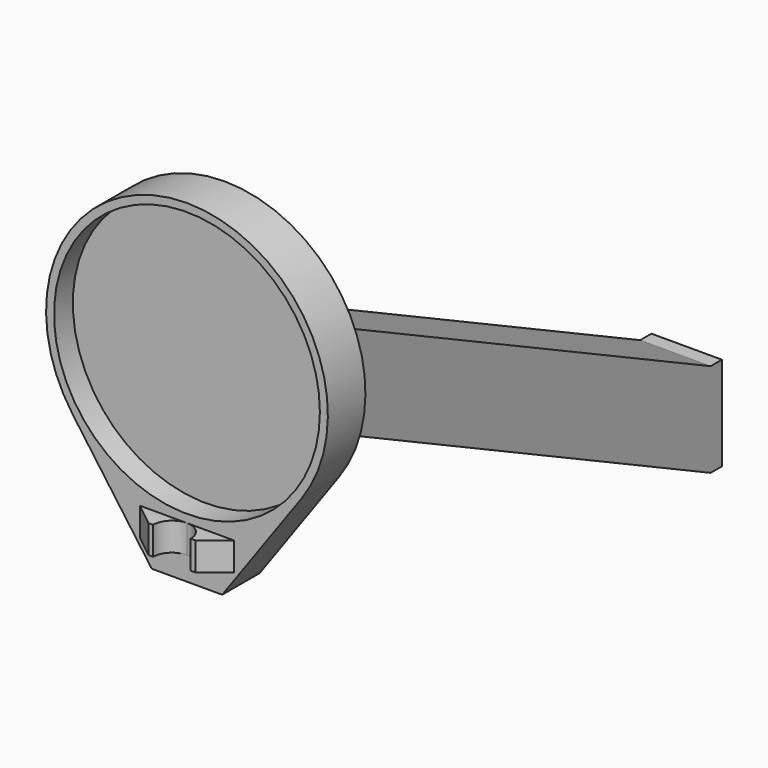
from build123d import *

# Parameters (mm, degrees)
SKETCH_W     = 15
SKETCH_H     = 20
SKETCH_R     = 2.75
PAD_DEPTH    = 3
PAD001_DEPTH = 2
PAD002_DEPTH = 5.5
PAD003_DEPTH = 5
SKETCH004_R  = 28.3
POCKET_DEPTH = 5
PAD004_DEPTH = 3


with BuildPart() as part:
    # Sketch → Pad (new body)
    with BuildSketch(Plane.XZ):
        Rectangle(SKETCH_W, SKETCH_H)
        Circle(SKETCH_R, mode=Mode.SUBTRACT)
    extrude(amount=-PAD_DEPTH)

    # Sketch001 (on DatumPlane) → Pad001 (join)
    with BuildSketch(Plane.YZ.offset(7.5)):
        Polygon((0, -10), (-125, 50), (-125, 70), (0, 10), align=None)
    pad001 = extrude(amount=-PAD001_DEPTH)

    # Mirrored: Pad001 across YZ
    add(pad001.mirror(Plane.YZ))

    # Sketch002 → Pad002 (join, symmetric)
    with BuildSketch(Plane.YZ):
        Polygon((0, 10), (-125, 70), (-125, 68), (0, 8), align=None)
    extrude(amount=PAD002_DEPTH, both=True)

    # Sketch003 (on DatumPlane) → Pad003 (join, symmetric)
    with BuildSketch(Plane.XZ.offset(125)):
        with BuildLine():
            ThreePointArc((24.372074, 43.507087), (0, 91), (-24.372074, 43.507087))
            Line((-24.372074, 43.507087), (-7.5, 20))
            Line((-7.5, 20), (7.5, 20))
            Line((7.5, 20), (24.372074, 43.507087))
        make_face()
    extrude(amount=PAD003_DEPTH, both=True)

    # Sketch004 (on DatumPlane) → Pocket (cut)
    with BuildSketch(Plane.XZ.offset(125)):
        with Locations((0, 61)):
            Circle(SKETCH004_R)
    extrude(amount=POCKET_DEPTH, mode=Mode.SUBTRACT)

    # Sketch005 (on DatumPlane) → Pad004 (join, symmetric)
    with BuildSketch(Plane.XY.offset(28)):
        with BuildLine():
            ThreePointArc((0, -130), (-2.828427, -131.171573), (-4, -134))
            Line((-4, -134), (-5, -134))
            Line((-5, -134), (-10, -130))
            Line((-10, -130), (0, -130))
        make_face()
    pad004 = extrude(amount=PAD004_DEPTH, both=True)

    # Mirrored001: Pad004 across Sketch005 V_Axis
    add(pad004.mirror(Plane(origin=(0, 0, 28), x_dir=(0, 0, 1), z_dir=(1, 0, 0))))


solid = part.part
